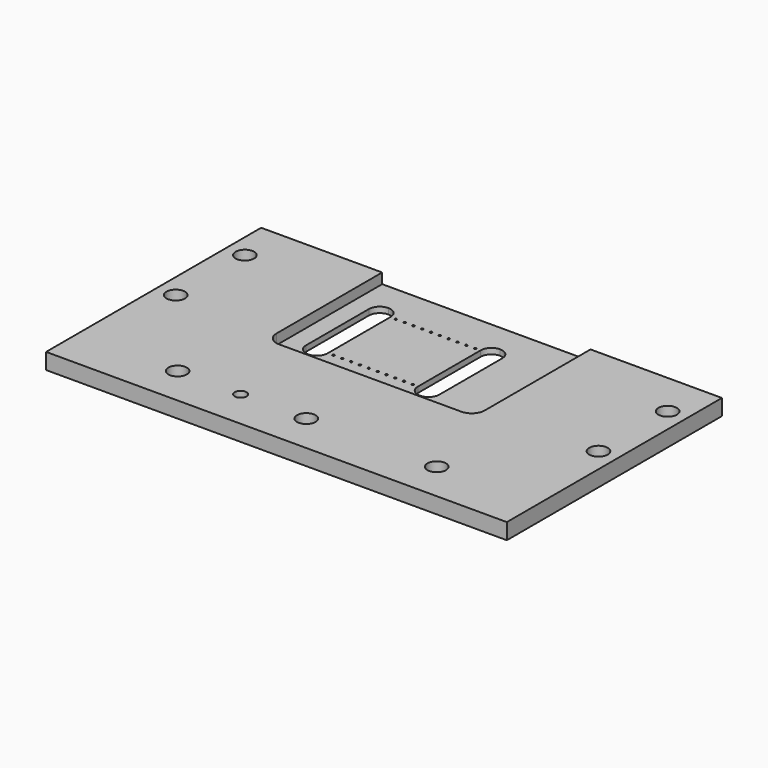
from build123d import *

# Parameters (mm, degrees)
F0_W     = 135.382
F0_H     = 78.994
F0_R     = 2.7178
F0_R_2   = 1.7272
F0_R_3   = 0.3175
F1_DEPTH = 4.699
F3_DEPTH = 3.0226


with BuildPart() as f1:
    # F0 (on Top) → F1 (new body)
    with BuildSketch(Plane.XY):
        Rectangle(F0_W, F0_H)
        with Locations((-38.2016, -28.067)):
            Circle(F0_R, mode=Mode.SUBTRACT)
        with Locations((-19.685, -28.067)):
            Circle(F0_R_2, mode=Mode.SUBTRACT)
        with Locations((-0.381, -28.067)):
            Circle(F0_R, mode=Mode.SUBTRACT)
        with Locations((37.9476, -28.067)):
            Circle(F0_R, mode=Mode.SUBTRACT)
        with Locations((-62.103, 1.143)):
            Circle(F0_R, mode=Mode.SUBTRACT)
        with Locations((-18.796, 4.953)):
            Circle(F0_R_3, mode=Mode.SUBTRACT)
        with Locations((-16.2052, 4.953)):
            Circle(F0_R_3, mode=Mode.SUBTRACT)
        with Locations((-13.6144, 4.953)):
            Circle(F0_R_3, mode=Mode.SUBTRACT)
        with Locations((-11.0236, 4.953)):
            Circle(F0_R_3, mode=Mode.SUBTRACT)
        with Locations((-8.4328, 4.953)):
            Circle(F0_R_3, mode=Mode.SUBTRACT)
        with Locations((-5.842, 4.953)):
            Circle(F0_R_3, mode=Mode.SUBTRACT)
        with Locations((-3.2512, 4.953)):
            Circle(F0_R_3, mode=Mode.SUBTRACT)
        with Locations((-0.6604, 4.953)):
            Circle(F0_R_3, mode=Mode.SUBTRACT)
        with BuildLine():
            ThreePointArc((-23.6093, 31.115), (-21.364236, 30.185064), (-20.4343, 27.94))
            Line((-20.4343, 27.94), (-20.4343, 4.826))
            ThreePointArc((-20.4343, 4.826), (-21.364236, 2.580936), (-23.6093, 1.651))
            ThreePointArc((-23.6093, 1.651), (-25.854364, 2.580936), (-26.7843, 4.826))
            Line((-26.7843, 4.826), (-26.7843, 27.94))
            ThreePointArc((-26.7843, 27.94), (-25.854364, 30.185064), (-23.6093, 31.115))
        make_face(mode=Mode.SUBTRACT)
        with Locations((-62.103, 26.543)):
            Circle(F0_R, mode=Mode.SUBTRACT)
        with Locations((-18.796, 27.813)):
            Circle(F0_R_3, mode=Mode.SUBTRACT)
        with Locations((-16.2052, 27.813)):
            Circle(F0_R_3, mode=Mode.SUBTRACT)
        with Locations((-13.6144, 27.813)):
            Circle(F0_R_3, mode=Mode.SUBTRACT)
        with Locations((-11.0236, 27.813)):
            Circle(F0_R_3, mode=Mode.SUBTRACT)
        with Locations((-8.4328, 27.813)):
            Circle(F0_R_3, mode=Mode.SUBTRACT)
        with Locations((-5.842, 27.813)):
            Circle(F0_R_3, mode=Mode.SUBTRACT)
        with Locations((-3.2512, 27.813)):
            Circle(F0_R_3, mode=Mode.SUBTRACT)
        with Locations((-0.6604, 27.813)):
            Circle(F0_R_3, mode=Mode.SUBTRACT)
        with Locations((1.9304, 4.953)):
            Circle(F0_R_3, mode=Mode.SUBTRACT)
        with Locations((4.5212, 4.953)):
            Circle(F0_R_3, mode=Mode.SUBTRACT)
        with BuildLine():
            Line((6.0579, 4.826), (6.0579, 27.94))
            ThreePointArc((6.0579, 27.94), (6.987836, 30.185064), (9.2329, 31.115))
            ThreePointArc((9.2329, 31.115), (11.477964, 30.185064), (12.4079, 27.94))
            Line((12.4079, 27.94), (12.4079, 4.826))
            ThreePointArc((12.4079, 4.826), (11.477964, 2.580936), (9.2329, 1.651))
            ThreePointArc((9.2329, 1.651), (6.987836, 2.580936), (6.0579, 4.826))
        make_face(mode=Mode.SUBTRACT)
        with Locations((62.103, 1.143)):
            Circle(F0_R, mode=Mode.SUBTRACT)
        with Locations((1.9304, 27.813)):
            Circle(F0_R_3, mode=Mode.SUBTRACT)
        with Locations((4.5212, 27.813)):
            Circle(F0_R_3, mode=Mode.SUBTRACT)
        with Locations((62.103, 26.543)):
            Circle(F0_R, mode=Mode.SUBTRACT)
    extrude(amount=F1_DEPTH)

    # F2 (on face) → F3 (cut)
    with BuildSketch(Plane.XY.offset(4.699)):
        with BuildLine():
            Line((29.083, 39.497), (-32.131, 39.497))
            Line((-32.131, 39.497), (-32.131, 0.635))
            ThreePointArc((-32.131, 0.635), (-31.015077, -2.059077), (-28.321, -3.175))
            Line((-28.321, -3.175), (25.273, -3.175))
            ThreePointArc((25.273, -3.175), (27.967077, -2.059077), (29.083, 0.635))
            Line((29.083, 0.635), (29.083, 39.497))
        make_face()
    extrude(amount=-F3_DEPTH, mode=Mode.SUBTRACT)


solid = f1.part
